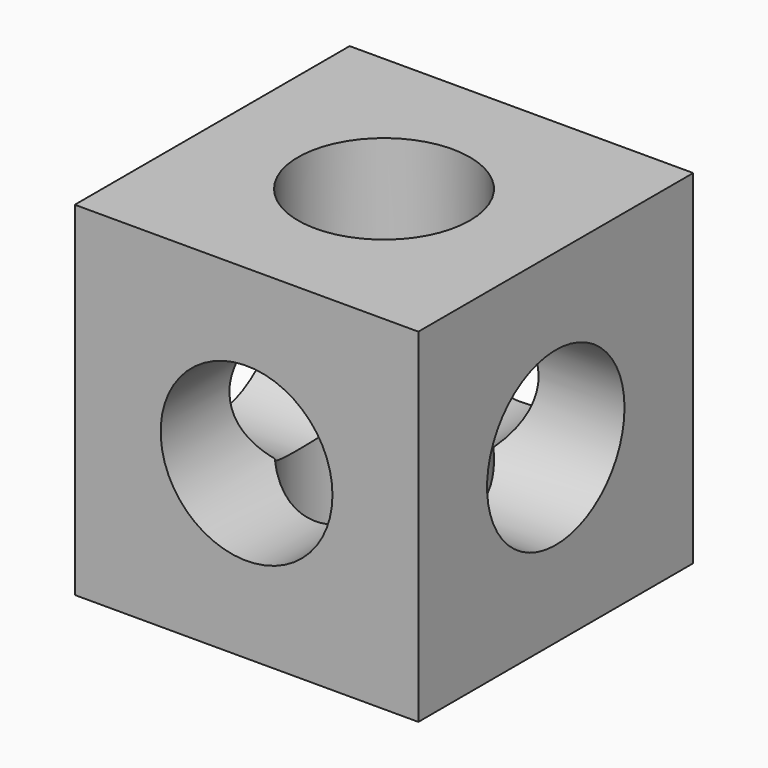
from build123d import *

# Parameters (mm, degrees)
F0_W     = 4
F0_H     = 4
F1_DEPTH = 4
F2_R     = 1
F3_DEPTH = 25
F4_R     = 1
F5_DEPTH = 25
F6_R     = 1
F7_DEPTH = 25


with BuildPart() as f1:
    # F0 (on Top) → F1 (new body)
    with BuildSketch(Plane.XY):
        with Locations((2, 2)):
            Rectangle(F0_W, F0_H)
    extrude(amount=F1_DEPTH)

    # F2 (on face) → F3 (cut)
    with BuildSketch(Plane.XY.offset(4)):
        with Locations((2, 2)):
            Circle(F2_R)
    extrude(amount=-F3_DEPTH, mode=Mode.SUBTRACT)

    # F4 (on face) → F5 (cut)
    with BuildSketch(Plane.XZ):
        with Locations((2, 2)):
            Circle(F4_R)
    extrude(amount=-F5_DEPTH, mode=Mode.SUBTRACT)

    # F6 (on face) → F7 (cut)
    with BuildSketch(Plane.YZ.offset(4)):
        with Locations((2, 2)):
            Circle(F6_R)
    extrude(amount=-F7_DEPTH, mode=Mode.SUBTRACT)


solid = f1.part
